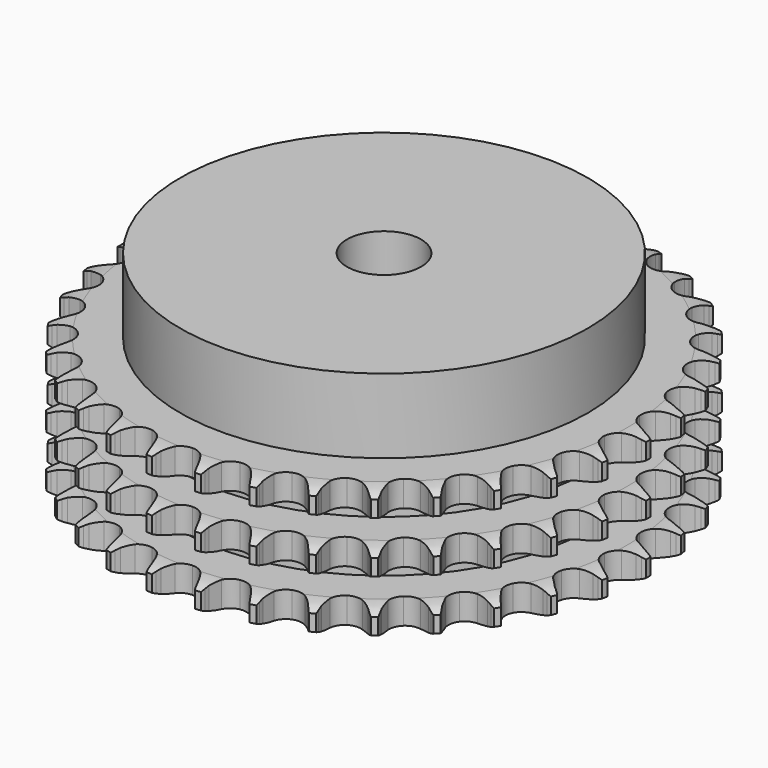
from build123d import *

# Parameters (mm, degrees)
PAD_DEPTH         = 34.9
SKETCH001_R       = 55
PAD001_DEPTH      = 55
SKETCH002_R       = 10
POCKET_DEPTH      = 0.001
POCKET_DEPTH_BACK = 55.001


with BuildPart() as part:
    # Sprocket → Pad (new body)
    with BuildSketch(Plane.XY):
        with BuildLine():
            ThreePointArc((-6.701282, 72.318351), (-5.941532, 71.286594), (-5.385277, 70.13233))
            Line((-5.385277, 70.13233), (-4.970115, 69.016696))
            ThreePointArc((-4.970115, 69.016696), (-4.312459, 67.5736), (-3.456247, 66.238708))
            ThreePointArc((-3.456247, 66.238708), (-1.932989, 64.96387), (0, 64.506617))
            ThreePointArc((0, 64.506617), (1.932989, 64.96387), (3.456247, 66.238708))
            ThreePointArc((3.456247, 66.238708), (4.312459, 67.5736), (4.970115, 69.016696))
            Line((4.970115, 69.016696), (5.385277, 70.13233))
            ThreePointArc((5.385277, 70.13233), (5.941532, 71.286594), (6.701282, 72.318351))
            ThreePointArc((6.701282, 72.318351), (7.258511, 71.164557), (7.5932, 69.927736))
            Line((7.5932, 69.927736), (7.796295, 68.754812))
            ThreePointArc((7.796295, 68.754812), (8.177586, 67.215444), (8.773933, 65.745952))
            ThreePointArc((8.773933, 65.745952), (10.037004, 64.212923), (11.85306, 63.408269))
            ThreePointArc((11.85306, 63.408269), (13.837156, 63.502551), (15.568728, 64.475784))
            Line((15.568728, 64.475784), (17.567274, 66.928299))
            ThreePointArc((17.567274, 66.928299), (17.860159, 67.446684), (18.180364, 67.948652))
            ThreePointArc((18.180364, 67.948652), (18.939243, 68.98105), (19.875642, 69.855636))
            ThreePointArc((19.875642, 69.855636), (20.211374, 68.619098), (20.313099, 67.341837))
            Line((20.313099, 67.341837), (20.297212, 66.151565))
            ThreePointArc((20.297212, 66.151565), (20.389152, 64.568346), (20.705327, 63.014296))
            ThreePointArc((20.705327, 63.014296), (21.665198, 61.275281), (23.302478, 60.150629))
            ThreePointArc((23.302478, 60.150629), (25.270115, 59.878729), (27.151035, 60.517215))
            Line((27.151035, 60.517215), (29.566201, 62.56074))
            ThreePointArc((29.566201, 62.56074), (29.949351, 63.01648), (30.356341, 63.451064))
            ThreePointArc((30.356341, 63.451064), (31.292001, 64.32644), (32.373161, 65.014072))
            ThreePointArc((32.373161, 65.014072), (32.475963, 63.736897), (32.34126, 62.462692))
            Line((32.34126, 62.462692), (32.106931, 61.295606))
            ThreePointArc((32.106931, 61.295606), (31.90639, 59.72245), (31.931626, 58.136764))
            ThreePointArc((31.931626, 58.136764), (32.555611, 56.250983), (33.958358, 54.844631))
            ThreePointArc((33.958358, 54.844631), (35.842531, 54.215808), (37.808746, 54.497805))
            Line((37.808746, 54.497805), (40.558286, 56.062749))
            ThreePointArc((40.558286, 56.062749), (41.018654, 56.440326), (41.498569, 56.792726))
            ThreePointArc((41.498569, 56.792726), (42.579148, 57.48127), (43.768251, 57.958531))
            ThreePointArc((43.768251, 57.958531), (43.634622, 56.684212), (43.268078, 55.456455))
            Line((43.268078, 55.456455), (42.823288, 54.352299))
            ThreePointArc((42.823288, 54.352299), (42.337095, 52.842778), (42.070532, 51.279454))
            ThreePointArc((42.070532, 51.279454), (42.33738, 49.311125), (43.457827, 47.670965))
            ThreePointArc((43.457827, 47.670965), (45.194372, 46.706633), (47.178926, 46.622537))
            Line((47.178926, 46.622537), (50.169207, 47.655609))
            ThreePointArc((50.169207, 47.655609), (50.691117, 47.942164), (51.227613, 48.20038))
            ThreePointArc((51.227613, 48.20038), (52.416313, 48.678644), (53.672865, 48.929282))
            ThreePointArc((53.672865, 48.929282), (53.307357, 47.701215), (52.721453, 46.561715))
            Line((52.721453, 46.561715), (52.081349, 45.558089))
            ThreePointArc((52.081349, 45.558089), (51.32606, 44.163608), (50.776776, 42.675884))
            ThreePointArc((50.776776, 42.675884), (50.677402, 40.692037), (51.477391, 38.873921))
            ThreePointArc((51.477391, 38.873921), (53.007173, 37.60692), (54.942484, 37.159595))
            Line((54.942484, 37.159595), (58.071676, 37.625614))
            ThreePointArc((58.071676, 37.625614), (58.637354, 37.811389), (59.212162, 37.966628))
            ThreePointArc((59.212162, 37.966628), (60.468503, 38.218326), (61.749715, 38.233805))
            ThreePointArc((61.749715, 38.233805), (61.164773, 37.09381), (60.379463, 36.081371))
            Line((60.379463, 36.081371), (59.565842, 35.212453))
            ThreePointArc((59.565842, 35.212453), (58.567178, 33.9805), (57.753878, 32.619038))
            ThreePointArc((57.753878, 32.619038), (57.291665, 30.687229), (57.743955, 28.753073))
            ThreePointArc((57.743955, 28.753073), (59.014879, 27.226548), (60.835041, 26.431227))
            Line((60.835041, 26.431227), (63.996584, 26.314324))
            ThreePointArc((63.996584, 26.314324), (64.586766, 26.392993), (65.180312, 26.439968))
            ThreePointArc((65.180312, 26.439968), (66.46151, 26.456528), (67.723752, 26.236321))
            ThreePointArc((67.723752, 26.236321), (66.939296, 25.22322), (65.981323, 24.37232))
            Line((65.981323, 24.37232), (65.021891, 23.6677))
            ThreePointArc((65.021891, 23.6677), (63.813861, 22.640227), (62.764241, 21.45139))
            ThreePointArc((62.764241, 21.45139), (61.954929, 19.637405), (62.044118, 17.653074))
            ThreePointArc((62.044118, 17.653074), (63.012904, 15.919009), (64.655935, 14.802776))
            Line((64.655935, 14.802776), (67.742165, 14.106931))
            ThreePointArc((67.742165, 14.106931), (68.336753, 14.075815), (68.928825, 14.012926))
            ThreePointArc((68.928825, 14.012926), (70.191251, 13.793785), (71.391537, 13.345391))
            ThreePointArc((71.391537, 13.345391), (70.434282, 12.493683), (69.336267, 11.833299))
            Line((69.336267, 11.833299), (68.263699, 11.316971))
            ThreePointArc((68.263699, 11.316971), (66.88744, 10.528968), (65.637243, 9.55324))
            ThreePointArc((65.637243, 9.55324), (64.508392, 7.918853), (64.231443, 5.95192))
            ThreePointArc((64.231443, 5.95192), (64.865099, 4.069367), (66.275047, 2.670234))
            Line((66.275047, 2.670234), (69.180867, 1.419144))
            ThreePointArc((69.180867, 1.419144), (69.759614, 1.279302), (70.330049, 1.108691))
            ThreePointArc((70.330049, 1.108691), (71.530713, 0.661311), (72.62817, 0))
            ThreePointArc((72.62817, 0), (71.530713, -0.661311), (70.330049, -1.108691))
            Line((70.330049, -1.108691), (69.180867, -1.419144))
            ThreePointArc((69.180867, -1.419144), (67.683247, -1.940843), (66.275047, -2.670234))
            ThreePointArc((66.275047, -2.670234), (64.865099, -4.069367), (64.231443, -5.95192))
            ThreePointArc((64.231443, -5.95192), (64.508392, -7.918853), (65.637243, -9.55324))
            Line((65.637243, -9.55324), (68.263699, -11.316971))
            ThreePointArc((68.263699, -11.316971), (68.806895, -11.560776), (69.336267, -11.833299))
            ThreePointArc((69.336267, -11.833299), (70.434282, -12.493683), (71.391537, -13.345391))
            ThreePointArc((71.391537, -13.345391), (70.191251, -13.793785), (68.928825, -14.012926))
            Line((68.928825, -14.012926), (67.742165, -14.106931))
            ThreePointArc((67.742165, -14.106931), (66.174182, -14.34456), (64.655935, -14.802776))
            ThreePointArc((64.655935, -14.802776), (63.012904, -15.919009), (62.044118, -17.653074))
            ThreePointArc((62.044118, -17.653074), (61.954929, -19.637405), (62.764241, -21.45139))
            Line((62.764241, -21.45139), (65.021891, -23.6677))
            ThreePointArc((65.021891, -23.6677), (65.51104, -24.007165), (65.981323, -24.37232))
            ThreePointArc((65.981323, -24.37232), (66.939296, -25.22322), (67.723752, -26.236321))
            ThreePointArc((67.723752, -26.236321), (66.46151, -26.456528), (65.180312, -26.439968))
            Line((65.180312, -26.439968), (63.996584, -26.314324))
            ThreePointArc((63.996584, -26.314324), (62.411635, -26.259791), (60.835041, -26.431227))
            ThreePointArc((60.835041, -26.431227), (59.014879, -27.226548), (57.743955, -28.753073))
            ThreePointArc((57.743955, -28.753073), (57.291665, -30.687229), (57.753878, -32.619038))
            Line((57.753878, -32.619038), (59.565842, -35.212453))
            ThreePointArc((59.565842, -35.212453), (59.984285, -35.63602), (60.379463, -36.081371))
            ThreePointArc((60.379463, -36.081371), (61.164773, -37.09381), (61.749715, -38.233805))
            ThreePointArc((61.749715, -38.233805), (60.468503, -38.218326), (59.212162, -37.966628))
            Line((59.212162, -37.966628), (58.071676, -37.625614))
            ThreePointArc((58.071676, -37.625614), (56.523734, -37.280776), (54.942484, -37.159595))
            ThreePointArc((54.942484, -37.159595), (53.007173, -37.60692), (51.477391, -38.873921))
            ThreePointArc((51.477391, -38.873921), (50.677402, -40.692037), (50.776776, -42.675884))
            Line((50.776776, -42.675884), (52.081349, -45.558089))
            ThreePointArc((52.081349, -45.558089), (52.414837, -46.051332), (52.721453, -46.561715))
            ThreePointArc((52.721453, -46.561715), (53.307357, -47.701215), (53.672865, -48.929282))
            ThreePointArc((53.672865, -48.929282), (52.416313, -48.678644), (51.227613, -48.20038))
            Line((51.227613, -48.20038), (50.169207, -47.655609))
            ThreePointArc((50.169207, -47.655609), (48.710986, -47.032209), (47.178926, -46.622537))
            ThreePointArc((47.178926, -46.622537), (45.194372, -46.706633), (43.457827, -47.670965))
            ThreePointArc((43.457827, -47.670965), (42.33738, -49.311125), (42.070532, -51.279454))
            Line((42.070532, -51.279454), (42.823288, -54.352299))
            ThreePointArc((42.823288, -54.352299), (43.060465, -54.898422), (43.268078, -55.456455))
            ThreePointArc((43.268078, -55.456455), (43.634622, -56.684212), (43.768251, -57.958531))
            ThreePointArc((43.768251, -57.958531), (42.579148, -57.48127), (41.498569, -56.792726))
            Line((41.498569, -56.792726), (40.558286, -56.062749))
            ThreePointArc((40.558286, -56.062749), (39.239443, -55.182016), (37.808746, -54.497805))
            ThreePointArc((37.808746, -54.497805), (35.842531, -54.215808), (33.958358, -54.844631))
            ThreePointArc((33.958358, -54.844631), (32.555611, -56.250983), (31.931626, -58.136764))
            Line((31.931626, -58.136764), (32.106931, -61.295606))
            ThreePointArc((32.106931, -61.295606), (32.23972, -61.876012), (32.34126, -62.462692))
            ThreePointArc((32.34126, -62.462692), (32.475963, -63.736897), (32.373161, -65.014072))
            ThreePointArc((32.373161, -65.014072), (31.292001, -64.32644), (30.356341, -63.451064))
            Line((30.356341, -63.451064), (29.566201, -62.56074))
            ThreePointArc((29.566201, -62.56074), (28.431648, -61.452666), (27.151035, -60.517215))
            ThreePointArc((27.151035, -60.517215), (25.270115, -59.878729), (23.302478, -60.150629))
            ThreePointArc((23.302478, -60.150629), (21.665198, -61.275281), (20.705327, -63.014296))
            Line((20.705327, -63.014296), (20.297212, -66.151565))
            ThreePointArc((20.297212, -66.151565), (20.32109, -66.746488), (20.313099, -67.341837))
            ThreePointArc((20.313099, -67.341837), (20.211374, -68.619098), (19.875642, -69.855636))
            ThreePointArc((19.875642, -69.855636), (18.939243, -68.98105), (18.180364, -67.948652))
            Line((18.180364, -67.948652), (17.567274, -66.928299))
            ThreePointArc((17.567274, -66.928299), (16.655647, -65.630619), (15.568728, -64.475784))
            ThreePointArc((15.568728, -64.475784), (13.837156, -63.502551), (11.85306, -63.408269))
            ThreePointArc((11.85306, -63.408269), (10.037004, -64.212923), (8.773933, -65.745952))
            Line((8.773933, -65.745952), (7.796295, -68.754812))
            ThreePointArc((7.796295, -68.754812), (7.71045, -69.343993), (7.5932, -69.927736))
            ThreePointArc((7.5932, -69.927736), (7.258511, -71.164557), (6.701282, -72.318351))
            ThreePointArc((6.701282, -72.318351), (5.941532, -71.286594), (5.385277, -70.13233))
            Line((5.385277, -70.13233), (4.970115, -69.016696))
            ThreePointArc((4.970115, -69.016696), (4.312459, -67.5736), (3.456247, -66.238708))
            ThreePointArc((3.456247, -66.238708), (1.932989, -64.96387), (0, -64.506617))
            ThreePointArc((0, -64.506617), (-1.932989, -64.96387), (-3.456247, -66.238708))
            Line((-3.456247, -66.238708), (-4.970115, -69.016696))
            ThreePointArc((-4.970115, -69.016696), (-5.16276, -69.580071), (-5.385277, -70.13233))
            ThreePointArc((-5.385277, -70.13233), (-5.941532, -71.286594), (-6.701282, -72.318351))
            ThreePointArc((-6.701282, -72.318351), (-7.258511, -71.164557), (-7.5932, -69.927736))
            Line((-7.5932, -69.927736), (-7.796295, -68.754812))
            ThreePointArc((-7.796295, -68.754812), (-8.177586, -67.215444), (-8.773933, -65.745952))
            ThreePointArc((-8.773933, -65.745952), (-10.037004, -64.212923), (-11.85306, -63.408269))
            ThreePointArc((-11.85306, -63.408269), (-13.837156, -63.502551), (-15.568728, -64.475784))
            Line((-15.568728, -64.475784), (-17.567274, -66.928299))
            ThreePointArc((-17.567274, -66.928299), (-17.860159, -67.446684), (-18.180364, -67.948652))
            ThreePointArc((-18.180364, -67.948652), (-18.939243, -68.98105), (-19.875642, -69.855636))
            ThreePointArc((-19.875642, -69.855636), (-20.211374, -68.619098), (-20.313099, -67.341837))
            Line((-20.313099, -67.341837), (-20.297212, -66.151565))
            ThreePointArc((-20.297212, -66.151565), (-20.389152, -64.568346), (-20.705327, -63.014296))
            ThreePointArc((-20.705327, -63.014296), (-21.665198, -61.275281), (-23.302478, -60.150629))
            ThreePointArc((-23.302478, -60.150629), (-25.270115, -59.878729), (-27.151035, -60.517215))
            Line((-27.151035, -60.517215), (-29.566201, -62.56074))
            ThreePointArc((-29.566201, -62.56074), (-29.949351, -63.01648), (-30.356341, -63.451064))
            ThreePointArc((-30.356341, -63.451064), (-31.292001, -64.32644), (-32.373161, -65.014072))
            ThreePointArc((-32.373161, -65.014072), (-32.475963, -63.736897), (-32.34126, -62.462692))
            Line((-32.34126, -62.462692), (-32.106931, -61.295606))
            ThreePointArc((-32.106931, -61.295606), (-31.90639, -59.72245), (-31.931626, -58.136764))
            ThreePointArc((-31.931626, -58.136764), (-32.555611, -56.250983), (-33.958358, -54.844631))
            ThreePointArc((-33.958358, -54.844631), (-35.842531, -54.215808), (-37.808746, -54.497805))
            Line((-37.808746, -54.497805), (-40.558286, -56.062749))
            ThreePointArc((-40.558286, -56.062749), (-41.018654, -56.440326), (-41.498569, -56.792726))
            ThreePointArc((-41.498569, -56.792726), (-42.579148, -57.48127), (-43.768251, -57.958531))
            ThreePointArc((-43.768251, -57.958531), (-43.634622, -56.684212), (-43.268078, -55.456455))
            Line((-43.268078, -55.456455), (-42.823288, -54.352299))
            ThreePointArc((-42.823288, -54.352299), (-42.337095, -52.842778), (-42.070532, -51.279454))
            ThreePointArc((-42.070532, -51.279454), (-42.33738, -49.311125), (-43.457827, -47.670965))
            ThreePointArc((-43.457827, -47.670965), (-45.194372, -46.706633), (-47.178926, -46.622537))
            Line((-47.178926, -46.622537), (-50.169207, -47.655609))
            ThreePointArc((-50.169207, -47.655609), (-50.691117, -47.942164), (-51.227613, -48.20038))
            ThreePointArc((-51.227613, -48.20038), (-52.416313, -48.678644), (-53.672865, -48.929282))
            ThreePointArc((-53.672865, -48.929282), (-53.307357, -47.701215), (-52.721453, -46.561715))
            Line((-52.721453, -46.561715), (-52.081349, -45.558089))
            ThreePointArc((-52.081349, -45.558089), (-51.32606, -44.163608), (-50.776776, -42.675884))
            ThreePointArc((-50.776776, -42.675884), (-50.677402, -40.692037), (-51.477391, -38.873921))
            ThreePointArc((-51.477391, -38.873921), (-53.007173, -37.60692), (-54.942484, -37.159595))
            Line((-54.942484, -37.159595), (-58.071676, -37.625614))
            ThreePointArc((-58.071676, -37.625614), (-58.637354, -37.811389), (-59.212162, -37.966628))
            ThreePointArc((-59.212162, -37.966628), (-60.468503, -38.218326), (-61.749715, -38.233805))
            ThreePointArc((-61.749715, -38.233805), (-61.164773, -37.09381), (-60.379463, -36.081371))
            Line((-60.379463, -36.081371), (-59.565842, -35.212453))
            ThreePointArc((-59.565842, -35.212453), (-58.567178, -33.9805), (-57.753878, -32.619038))
            ThreePointArc((-57.753878, -32.619038), (-57.291665, -30.687229), (-57.743955, -28.753073))
            ThreePointArc((-57.743955, -28.753073), (-59.014879, -27.226548), (-60.835041, -26.431227))
            Line((-60.835041, -26.431227), (-63.996584, -26.314324))
            ThreePointArc((-63.996584, -26.314324), (-64.586766, -26.392993), (-65.180312, -26.439968))
            ThreePointArc((-65.180312, -26.439968), (-66.46151, -26.456528), (-67.723752, -26.236321))
            ThreePointArc((-67.723752, -26.236321), (-66.939296, -25.22322), (-65.981323, -24.37232))
            Line((-65.981323, -24.37232), (-65.021891, -23.6677))
            ThreePointArc((-65.021891, -23.6677), (-63.813861, -22.640227), (-62.764241, -21.45139))
            ThreePointArc((-62.764241, -21.45139), (-61.954929, -19.637405), (-62.044118, -17.653074))
            ThreePointArc((-62.044118, -17.653074), (-63.012904, -15.919009), (-64.655935, -14.802776))
            Line((-64.655935, -14.802776), (-67.742165, -14.106931))
            ThreePointArc((-67.742165, -14.106931), (-68.336753, -14.075815), (-68.928825, -14.012926))
            ThreePointArc((-68.928825, -14.012926), (-70.191251, -13.793785), (-71.391537, -13.345391))
            ThreePointArc((-71.391537, -13.345391), (-70.434282, -12.493683), (-69.336267, -11.833299))
            Line((-69.336267, -11.833299), (-68.263699, -11.316971))
            ThreePointArc((-68.263699, -11.316971), (-66.88744, -10.528968), (-65.637243, -9.55324))
            ThreePointArc((-65.637243, -9.55324), (-64.508392, -7.918853), (-64.231443, -5.95192))
            ThreePointArc((-64.231443, -5.95192), (-64.865099, -4.069367), (-66.275047, -2.670234))
            Line((-66.275047, -2.670234), (-69.180867, -1.419144))
            ThreePointArc((-69.180867, -1.419144), (-69.759614, -1.279302), (-70.330049, -1.108691))
            ThreePointArc((-70.330049, -1.108691), (-71.530713, -0.661311), (-72.62817, 0))
            ThreePointArc((-72.62817, 0), (-71.530713, 0.661311), (-70.330049, 1.108691))
            Line((-70.330049, 1.108691), (-69.180867, 1.419144))
            ThreePointArc((-69.180867, 1.419144), (-67.683247, 1.940843), (-66.275047, 2.670234))
            ThreePointArc((-66.275047, 2.670234), (-64.865099, 4.069367), (-64.231443, 5.95192))
            ThreePointArc((-64.231443, 5.95192), (-64.508392, 7.918853), (-65.637243, 9.55324))
            Line((-65.637243, 9.55324), (-68.263699, 11.316971))
            ThreePointArc((-68.263699, 11.316971), (-68.806895, 11.560776), (-69.336267, 11.833299))
            ThreePointArc((-69.336267, 11.833299), (-70.434282, 12.493683), (-71.391537, 13.345391))
            ThreePointArc((-71.391537, 13.345391), (-70.191251, 13.793785), (-68.928825, 14.012926))
            Line((-68.928825, 14.012926), (-67.742165, 14.106931))
            ThreePointArc((-67.742165, 14.106931), (-66.174182, 14.34456), (-64.655935, 14.802776))
            ThreePointArc((-64.655935, 14.802776), (-63.012904, 15.919009), (-62.044118, 17.653074))
            ThreePointArc((-62.044118, 17.653074), (-61.954929, 19.637405), (-62.764241, 21.45139))
            Line((-62.764241, 21.45139), (-65.021891, 23.6677))
            ThreePointArc((-65.021891, 23.6677), (-65.51104, 24.007165), (-65.981323, 24.37232))
            ThreePointArc((-65.981323, 24.37232), (-66.939296, 25.22322), (-67.723752, 26.236321))
            ThreePointArc((-67.723752, 26.236321), (-66.46151, 26.456528), (-65.180312, 26.439968))
            Line((-65.180312, 26.439968), (-63.996584, 26.314324))
            ThreePointArc((-63.996584, 26.314324), (-62.411635, 26.259791), (-60.835041, 26.431227))
            ThreePointArc((-60.835041, 26.431227), (-59.014879, 27.226548), (-57.743955, 28.753073))
            ThreePointArc((-57.743955, 28.753073), (-57.291665, 30.687229), (-57.753878, 32.619038))
            Line((-57.753878, 32.619038), (-59.565842, 35.212453))
            ThreePointArc((-59.565842, 35.212453), (-59.984285, 35.63602), (-60.379463, 36.081371))
            ThreePointArc((-60.379463, 36.081371), (-61.164773, 37.09381), (-61.749715, 38.233805))
            ThreePointArc((-61.749715, 38.233805), (-60.468503, 38.218326), (-59.212162, 37.966628))
            Line((-59.212162, 37.966628), (-58.071676, 37.625614))
            ThreePointArc((-58.071676, 37.625614), (-56.523734, 37.280776), (-54.942484, 37.159595))
            ThreePointArc((-54.942484, 37.159595), (-53.007173, 37.60692), (-51.477391, 38.873921))
            ThreePointArc((-51.477391, 38.873921), (-50.677402, 40.692037), (-50.776776, 42.675884))
            Line((-50.776776, 42.675884), (-52.081349, 45.558089))
            ThreePointArc((-52.081349, 45.558089), (-52.414837, 46.051332), (-52.721453, 46.561715))
            ThreePointArc((-52.721453, 46.561715), (-53.307357, 47.701215), (-53.672865, 48.929282))
            ThreePointArc((-53.672865, 48.929282), (-52.416313, 48.678644), (-51.227613, 48.20038))
            Line((-51.227613, 48.20038), (-50.169207, 47.655609))
            ThreePointArc((-50.169207, 47.655609), (-48.710986, 47.032209), (-47.178926, 46.622537))
            ThreePointArc((-47.178926, 46.622537), (-45.194372, 46.706633), (-43.457827, 47.670965))
            ThreePointArc((-43.457827, 47.670965), (-42.33738, 49.311125), (-42.070532, 51.279454))
            Line((-42.070532, 51.279454), (-42.823288, 54.352299))
            ThreePointArc((-42.823288, 54.352299), (-43.060465, 54.898422), (-43.268078, 55.456455))
            ThreePointArc((-43.268078, 55.456455), (-43.634622, 56.684212), (-43.768251, 57.958531))
            ThreePointArc((-43.768251, 57.958531), (-42.579148, 57.48127), (-41.498569, 56.792726))
            Line((-41.498569, 56.792726), (-40.558286, 56.062749))
            ThreePointArc((-40.558286, 56.062749), (-39.239443, 55.182016), (-37.808746, 54.497805))
            ThreePointArc((-37.808746, 54.497805), (-35.842531, 54.215808), (-33.958358, 54.844631))
            ThreePointArc((-33.958358, 54.844631), (-32.555611, 56.250983), (-31.931626, 58.136764))
            Line((-31.931626, 58.136764), (-32.106931, 61.295606))
            ThreePointArc((-32.106931, 61.295606), (-32.23972, 61.876012), (-32.34126, 62.462692))
            ThreePointArc((-32.34126, 62.462692), (-32.475963, 63.736897), (-32.373161, 65.014072))
            ThreePointArc((-32.373161, 65.014072), (-31.292001, 64.32644), (-30.356341, 63.451064))
            Line((-30.356341, 63.451064), (-29.566201, 62.56074))
            ThreePointArc((-29.566201, 62.56074), (-28.431648, 61.452666), (-27.151035, 60.517215))
            ThreePointArc((-27.151035, 60.517215), (-25.270115, 59.878729), (-23.302478, 60.150629))
            ThreePointArc((-23.302478, 60.150629), (-21.665198, 61.275281), (-20.705327, 63.014296))
            Line((-20.705327, 63.014296), (-20.297212, 66.151565))
            ThreePointArc((-20.297212, 66.151565), (-20.32109, 66.746488), (-20.313099, 67.341837))
            ThreePointArc((-20.313099, 67.341837), (-20.211374, 68.619098), (-19.875642, 69.855636))
            ThreePointArc((-19.875642, 69.855636), (-18.939243, 68.98105), (-18.180364, 67.948652))
            Line((-18.180364, 67.948652), (-17.567274, 66.928299))
            ThreePointArc((-17.567274, 66.928299), (-16.655647, 65.630619), (-15.568728, 64.475784))
            ThreePointArc((-15.568728, 64.475784), (-13.837156, 63.502551), (-11.85306, 63.408269))
            ThreePointArc((-11.85306, 63.408269), (-10.037004, 64.212923), (-8.773933, 65.745952))
            Line((-8.773933, 65.745952), (-7.796295, 68.754812))
            ThreePointArc((-7.796295, 68.754812), (-7.71045, 69.343993), (-7.5932, 69.927736))
            ThreePointArc((-7.5932, 69.927736), (-7.258511, 71.164557), (-6.701282, 72.318351))
        make_face()
    extrude(amount=PAD_DEPTH)

    # Sketch → Groove (revolve, cut)
    with BuildSketch(Plane.XZ):
        with BuildLine():
            ThreePointArc((65.633431, 0), (68.54032, 0.329167), (71.3, 1.3))
            Line((71.3, 1.3), (71.3, 5.7))
            ThreePointArc((71.3, 5.7), (68.54032, 6.670833), (65.633431, 7))
            Line((55, 7), (65.633431, 7))
            Line((55, 7), (55, 13.95))
            Line((55, 13.95), (65.633431, 13.95))
            ThreePointArc((65.633431, 13.95), (68.54032, 14.279167), (71.3, 15.25))
            Line((71.3, 19.65), (71.3, 15.25))
            ThreePointArc((71.3, 19.65), (68.54032, 20.620833), (65.633431, 20.95))
            Line((55, 20.95), (65.633431, 20.95))
            Line((55, 27.9), (55, 20.95))
            Line((65.633431, 27.9), (55, 27.9))
            ThreePointArc((65.633431, 27.9), (68.54032, 28.229167), (71.3, 29.2))
            Line((71.3, 29.2), (71.3, 33.6))
            ThreePointArc((71.3, 33.6), (68.54032, 34.570833), (65.633431, 34.9))
            Line((65.633431, 34.9), (81.3, 34.9))
            Line((81.3, 34.9), (81.3, 0))
            Line((65.633431, 0), (81.3, 0))
        make_face()
    revolve(axis=Axis((0, 0, 0), (0, 0, 1)), mode=Mode.SUBTRACT)

    # Sketch001 → Pad001 (join)
    with BuildSketch(Plane.XY):
        Circle(SKETCH001_R)
    extrude(amount=PAD001_DEPTH)

    # Sketch002 → Pocket (cut, two sides)
    with BuildSketch(Plane.XY) as pocket_sk:
        Circle(SKETCH002_R)
    extrude(amount=-POCKET_DEPTH, mode=Mode.SUBTRACT)
    extrude(pocket_sk.sketch, amount=POCKET_DEPTH_BACK, mode=Mode.SUBTRACT)


solid = part.part
